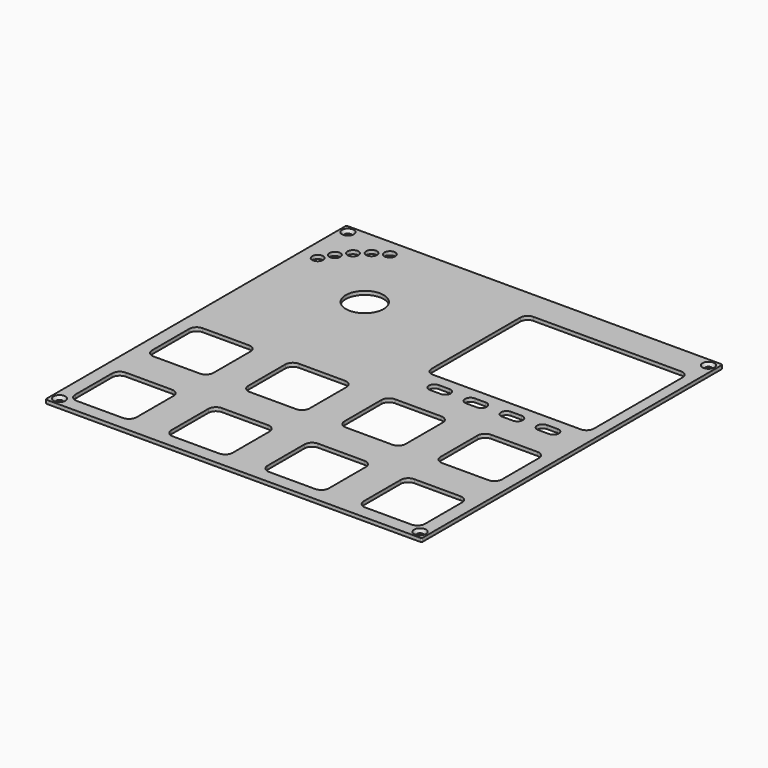
from build123d import *

# Parameters (mm, degrees)
PAD_DEPTH        = 1
POCKET_DEPTH     = 0.001
HOLE_D           = 1.75
HOLE_CSINK_D     = 3.3
HOLE_CSINK_ANGLE = 90
SKETCH025_R      = 5.25
SKETCH025_R_2    = 1.5
POCKET007_DEPTH  = 5
POCKET008_DEPTH  = 1.001
POCKET010_DEPTH  = 5
POCKET011_DEPTH  = 1.001


with BuildPart() as part:
    # Sketch → Pad (new body)
    with BuildSketch(Plane.XY):
        with BuildLine():
            Line((-51.8, 52.175), (51.8, 52.175))
            ThreePointArc((52.175, 51.8), (52.065165, 52.065165), (51.8, 52.175))
            Line((52.175, 51.8), (52.175, -51.8))
            ThreePointArc((51.8, -52.175), (52.065165, -52.065165), (52.175, -51.8))
            Line((51.8, -52.175), (-51.8, -52.175))
            ThreePointArc((-52.175, -51.8), (-52.065165, -52.065165), (-51.8, -52.175))
            Line((-52.175, -51.8), (-52.175, 51.8))
            ThreePointArc((-51.8, 52.175), (-52.065165, 52.065165), (-52.175, 51.8))
        make_face()
    extrude(amount=-PAD_DEPTH)

    # Sketch002 → Pocket (cut, through all)
    with BuildSketch(Plane.XY.offset(-4.8)):
        with BuildLine():
            Line((-45, 50.175), (45, 50.175))
            ThreePointArc((45, 50.175), (45.353553, 50.321447), (45.5, 50.675))
            ThreePointArc((45.5, 50.675), (45.353553, 51.028553), (45, 51.175))
            Line((-45, 51.175), (45, 51.175))
            ThreePointArc((-45, 51.175), (-45.353553, 51.028553), (-45.5, 50.675))
            ThreePointArc((-45.5, 50.675), (-45.353553, 50.321447), (-45, 50.175))
        make_face()
        with BuildLine():
            Line((-45, -51.175), (45, -51.175))
            ThreePointArc((45, -51.175), (45.353553, -51.028553), (45.5, -50.675))
            ThreePointArc((45.5, -50.675), (45.353553, -50.321447), (45, -50.175))
            Line((-45, -50.175), (45, -50.175))
            ThreePointArc((-45, -50.175), (-45.353553, -50.321447), (-45.5, -50.675))
            ThreePointArc((-45.5, -50.675), (-45.353553, -51.028553), (-45, -51.175))
        make_face()
        with BuildLine():
            Line((51.175, -45), (51.175, 45))
            ThreePointArc((51.175, 45), (51.028553, 45.353553), (50.675, 45.5))
            ThreePointArc((50.675, 45.5), (50.321447, 45.353553), (50.175, 45))
            Line((50.175, -45), (50.175, 45))
            ThreePointArc((50.175, -45), (50.321447, -45.353553), (50.675, -45.5))
            ThreePointArc((50.675, -45.5), (51.028553, -45.353553), (51.175, -45))
        make_face()
        with BuildLine():
            Line((-50.175, -45), (-50.175, 45))
            ThreePointArc((-50.175, 45), (-50.321447, 45.353553), (-50.675, 45.5))
            ThreePointArc((-50.675, 45.5), (-51.028553, 45.353553), (-51.175, 45))
            Line((-51.175, -45), (-51.175, 45))
            ThreePointArc((-51.175, -45), (-51.028553, -45.353553), (-50.675, -45.5))
            ThreePointArc((-50.675, -45.5), (-50.321447, -45.353553), (-50.175, -45))
        make_face()
    extrude(amount=-POCKET_DEPTH, mode=Mode.SUBTRACT)

    # Hole (through all)
    with Locations(Plane.XY):
        with Locations((-50, 50), (50, 50), (50, -50), (-50, -50)):
            CounterSinkHole(HOLE_D / 2, HOLE_CSINK_D / 2, counter_sink_angle=HOLE_CSINK_ANGLE)

    # Sketch025 → Pocket007 (cut)
    with BuildSketch(Plane.XY):
        with Locations((-26.67, 26.67)):
            Circle(SKETCH025_R)
        with Locations((-47.515079, 36.39022)):
            Circle(SKETCH025_R_2)
        with Locations((-45.510497, 39.862258)):
            Circle(SKETCH025_R_2)
        with Locations((-42.933456, 42.933456)):
            Circle(SKETCH025_R_2)
        with Locations((-39.862258, 45.510497)):
            Circle(SKETCH025_R_2)
        with Locations((-36.39022, 47.515079)):
            Circle(SKETCH025_R_2)
    extrude(amount=-POCKET007_DEPTH, mode=Mode.SUBTRACT)

    # Sketch027 → Pocket008 (cut, through all)
    with BuildSketch(Plane.XY):
        with BuildLine():
            Line((4.17, 11.27), (4.17, 42.07))
            ThreePointArc((6.17, 44.07), (4.755786, 43.484214), (4.17, 42.07))
            Line((6.17, 44.07), (47.17, 44.07))
            ThreePointArc((49.17, 42.07), (48.584214, 43.484214), (47.17, 44.07))
            Line((49.17, 42.07), (49.17, 11.27))
            ThreePointArc((47.17, 9.27), (48.584214, 9.855786), (49.17, 11.27))
            Line((47.17, 9.27), (6.17, 9.27))
            ThreePointArc((4.17, 11.27), (4.755786, 9.855786), (6.17, 9.27))
        make_face()
    extrude(amount=-POCKET008_DEPTH, mode=Mode.SUBTRACT)

    # Sketch029 → Pocket010 (cut)
    with BuildSketch(Plane.XY):
        with BuildLine():
            ThreePointArc((20.17, 6.27), (18.67, 4.77), (20.17, 3.27))
            Line((20.17, 3.27), (23.17, 3.27))
            ThreePointArc((23.17, 3.27), (24.67, 4.77), (23.17, 6.27))
            Line((23.17, 6.27), (20.17, 6.27))
        make_face()
        with BuildLine():
            ThreePointArc((30.17, 6.27), (28.67, 4.77), (30.17, 3.27))
            Line((30.17, 3.27), (33.17, 3.27))
            ThreePointArc((33.17, 3.27), (34.67, 4.77), (33.17, 6.27))
            Line((33.17, 6.27), (30.17, 6.27))
        make_face()
        with BuildLine():
            ThreePointArc((40.17, 6.27), (38.67, 4.77), (40.17, 3.27))
            Line((40.17, 3.27), (43.17, 3.27))
            ThreePointArc((43.17, 3.27), (44.67, 4.77), (43.17, 6.27))
            Line((43.17, 6.27), (40.17, 6.27))
        make_face()
        with BuildLine():
            ThreePointArc((10.17, 6.27), (8.67, 4.77), (10.17, 3.27))
            Line((10.17, 3.27), (13.17, 3.27))
            ThreePointArc((13.17, 3.27), (14.67, 4.77), (13.17, 6.27))
            Line((13.17, 6.27), (10.17, 6.27))
        make_face()
    extrude(amount=-POCKET010_DEPTH, mode=Mode.SUBTRACT)

    # Sketch030 → Pocket011 (cut, through all)
    with BuildSketch(Plane.XY):
        with BuildLine():
            Line((-48.505, -19.735), (-48.505, -6.935))
            ThreePointArc((-46.405, -4.835), (-47.889924, -5.450076), (-48.505, -6.935))
            Line((-46.405, -4.835), (-33.605, -4.835))
            ThreePointArc((-31.505, -6.935), (-32.120076, -5.450076), (-33.605, -4.835))
            Line((-31.505, -6.935), (-31.505, -19.735))
            ThreePointArc((-33.605, -21.835), (-32.120076, -21.219924), (-31.505, -19.735))
            Line((-33.605, -21.835), (-46.405, -21.835))
            ThreePointArc((-48.505, -19.735), (-47.889924, -21.219924), (-46.405, -21.835))
        make_face()
        with BuildLine():
            Line((-21.835, -19.735), (-21.835, -6.935))
            ThreePointArc((-19.735, -4.835), (-21.219924, -5.450076), (-21.835, -6.935))
            Line((-19.735, -4.835), (-6.935, -4.835))
            ThreePointArc((-4.835, -6.935), (-5.450076, -5.450076), (-6.935, -4.835))
            Line((-4.835, -6.935), (-4.835, -19.735))
            ThreePointArc((-6.935, -21.835), (-5.450076, -21.219924), (-4.835, -19.735))
            Line((-6.935, -21.835), (-19.735, -21.835))
            ThreePointArc((-21.835, -19.735), (-21.219924, -21.219924), (-19.735, -21.835))
        make_face()
        with BuildLine():
            Line((4.835, -19.735), (4.835, -6.935))
            ThreePointArc((6.935, -4.835), (5.450076, -5.450076), (4.835, -6.935))
            Line((6.935, -4.835), (19.735, -4.835))
            ThreePointArc((21.835, -6.935), (21.219924, -5.450076), (19.735, -4.835))
            Line((21.835, -6.935), (21.835, -19.735))
            ThreePointArc((19.735, -21.835), (21.219924, -21.219924), (21.835, -19.735))
            Line((19.735, -21.835), (6.935, -21.835))
            ThreePointArc((4.835, -19.735), (5.450076, -21.219924), (6.935, -21.835))
        make_face()
        with BuildLine():
            Line((31.505, -19.735), (31.505, -6.935))
            ThreePointArc((33.605, -4.835), (32.120076, -5.450076), (31.505, -6.935))
            Line((33.605, -4.835), (46.405, -4.835))
            ThreePointArc((48.505, -6.935), (47.889924, -5.450076), (46.405, -4.835))
            Line((48.505, -6.935), (48.505, -19.735))
            ThreePointArc((46.405, -21.835), (47.889924, -21.219924), (48.505, -19.735))
            Line((46.405, -21.835), (33.605, -21.835))
            ThreePointArc((31.505, -19.735), (32.120076, -21.219924), (33.605, -21.835))
        make_face()
        with BuildLine():
            Line((31.505, -46.405), (31.505, -33.605))
            ThreePointArc((33.605, -31.505), (32.120076, -32.120076), (31.505, -33.605))
            Line((33.605, -31.505), (46.405, -31.505))
            ThreePointArc((48.505, -33.605), (47.889924, -32.120076), (46.405, -31.505))
            Line((48.505, -33.605), (48.505, -46.405))
            ThreePointArc((46.405, -48.505), (47.889924, -47.889924), (48.505, -46.405))
            Line((46.405, -48.505), (33.605, -48.505))
            ThreePointArc((31.505, -46.405), (32.120076, -47.889924), (33.605, -48.505))
        make_face()
        with BuildLine():
            Line((4.835, -46.405), (4.835, -33.605))
            ThreePointArc((6.935, -31.505), (5.450076, -32.120076), (4.835, -33.605))
            Line((6.935, -31.505), (19.735, -31.505))
            ThreePointArc((21.835, -33.605), (21.219924, -32.120076), (19.735, -31.505))
            Line((21.835, -33.605), (21.835, -46.405))
            ThreePointArc((19.735, -48.505), (21.219924, -47.889924), (21.835, -46.405))
            Line((19.735, -48.505), (6.935, -48.505))
            ThreePointArc((4.835, -46.405), (5.450076, -47.889924), (6.935, -48.505))
        make_face()
        with BuildLine():
            Line((-21.835, -46.405), (-21.835, -33.605))
            ThreePointArc((-19.735, -31.505), (-21.219924, -32.120076), (-21.835, -33.605))
            Line((-19.735, -31.505), (-6.935, -31.505))
            ThreePointArc((-4.835, -33.605), (-5.450076, -32.120076), (-6.935, -31.505))
            Line((-4.835, -33.605), (-4.835, -46.405))
            ThreePointArc((-6.935, -48.505), (-5.450076, -47.889924), (-4.835, -46.405))
            Line((-6.935, -48.505), (-19.735, -48.505))
            ThreePointArc((-21.835, -46.405), (-21.219924, -47.889924), (-19.735, -48.505))
        make_face()
        with BuildLine():
            Line((-48.505, -46.405), (-48.505, -33.605))
            ThreePointArc((-46.405, -31.505), (-47.889924, -32.120076), (-48.505, -33.605))
            Line((-46.405, -31.505), (-33.605, -31.505))
            ThreePointArc((-31.505, -33.605), (-32.120076, -32.120076), (-33.605, -31.505))
            Line((-31.505, -33.605), (-31.505, -46.405))
            ThreePointArc((-33.605, -48.505), (-32.120076, -47.889924), (-31.505, -46.405))
            Line((-33.605, -48.505), (-46.405, -48.505))
            ThreePointArc((-48.505, -46.405), (-47.889924, -47.889924), (-46.405, -48.505))
        make_face()
    extrude(amount=-POCKET011_DEPTH, mode=Mode.SUBTRACT)


solid = part.part
